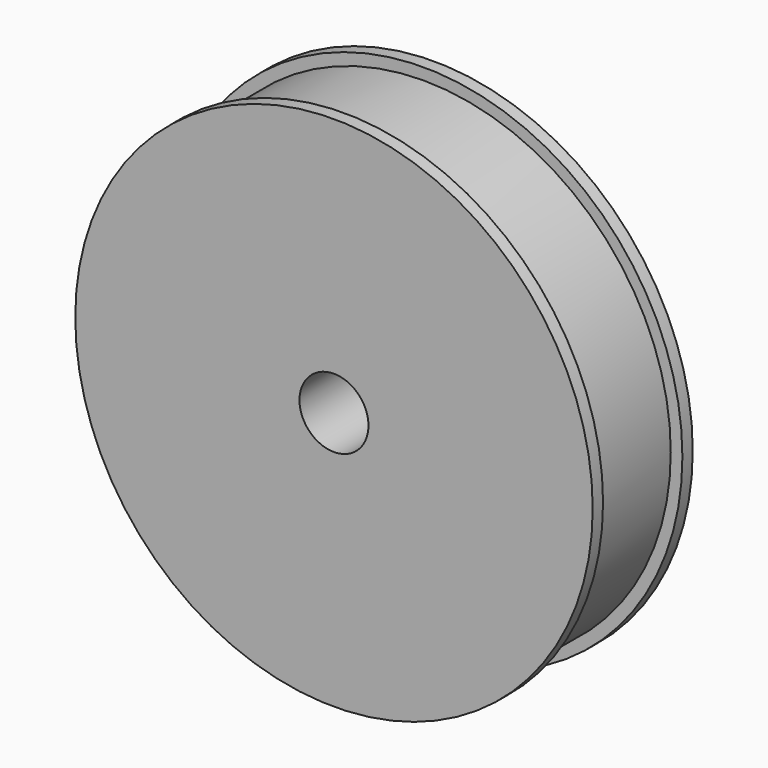
from build123d import *

# Parameters (mm, degrees)
F0_R     = 30
F1_DEPTH = 1.5
F2_R     = 28.65
F3_DEPTH = 11.5
F4_R     = 30
F5_DEPTH = 1.5
F6_R     = 19
F7_DEPTH = 8
F8_R     = 4
F9_DEPTH = 22.501


with BuildPart() as f1:
    # F0 (on Front) → F1 (new body)
    with BuildSketch(Plane.XZ):
        Circle(F0_R)
    extrude(amount=F1_DEPTH)

    # F2 (on face) → F3 (join)
    with BuildSketch(Plane(origin=(0, 0, 0), x_dir=(-1, 0, 0), z_dir=(0, 1, 0))):
        Circle(F2_R)
    extrude(amount=F3_DEPTH)

    # F4 (on face) → F5 (join)
    with BuildSketch(Plane(origin=(0, 11.5, 0), x_dir=(-1, 0, 0), z_dir=(0, 1, 0))):
        Circle(F4_R)
    extrude(amount=F5_DEPTH)

    # F6 (on face) → F7 (join)
    with BuildSketch(Plane(origin=(0, 13, 0), x_dir=(-1, 0, 0), z_dir=(0, 1, 0))):
        Circle(F6_R)
    extrude(amount=F7_DEPTH)

    # F8 (on face) → F9 (cut, through all)
    with BuildSketch(Plane(origin=(0, 21, 0), x_dir=(-1, 0, 0), z_dir=(0, 1, 0))):
        Circle(F8_R)
    extrude(amount=-F9_DEPTH, mode=Mode.SUBTRACT)


solid = f1.part
